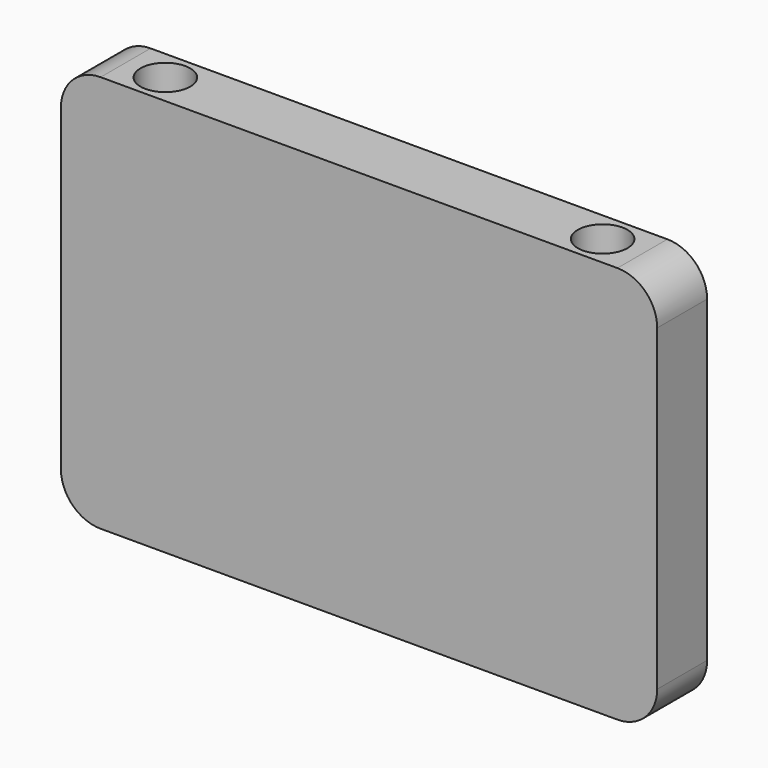
from build123d import *

# Parameters (mm, degrees)
F0_W          = 38.1
F0_H          = 25.4
F1_DEPTH      = 3.9878
F2_R          = 2.54
F3_R          = 2.54
F4_R          = 2.54
F5_R          = 2.54
F6_R          = 1.5875
F7_DEPTH      = 10.421824
F7_DEPTH_BACK = 3.175


with BuildPart() as f1:
    # F0 (on Front) → F1 (new body)
    with BuildSketch(Plane.XZ):
        with Locations((-13.178508, -2.278176)):
            Rectangle(F0_W, F0_H)
    extrude(amount=F1_DEPTH)

    # F2
    f2_edges = [f1.edges().sort_by_distance(p)[0] for p in [
        (-32.228508, -1.9939, -14.978176),
    ]]
    fillet(f2_edges, radius=F2_R)

    # F3
    f3_edges = [f1.edges().sort_by_distance(p)[0] for p in [
        (5.871492, -1.9939, -14.978176),
    ]]
    fillet(f3_edges, radius=F3_R)

    # F4
    f4_edges = [f1.edges().sort_by_distance(p)[0] for p in [
        (-32.228508, -1.9939, 10.421824),
    ]]
    fillet(f4_edges, radius=F4_R)

    # F5
    f5_edges = [f1.edges().sort_by_distance(p)[0] for p in [
        (5.871492, -1.9939, 10.421824),
    ]]
    fillet(f5_edges, radius=F5_R)

    # F6 (on Top) → F7 (cut, two sides)
    with BuildSketch(Plane.XY) as f7_sk:
        with Locations((-27.148508, -1.9939)):
            Circle(F6_R)
        with Locations((0.791492, -1.9939)):
            Circle(F6_R)
    extrude(amount=F7_DEPTH, mode=Mode.SUBTRACT)
    extrude(f7_sk.sketch, amount=-F7_DEPTH_BACK, mode=Mode.SUBTRACT)


solid = f1.part
